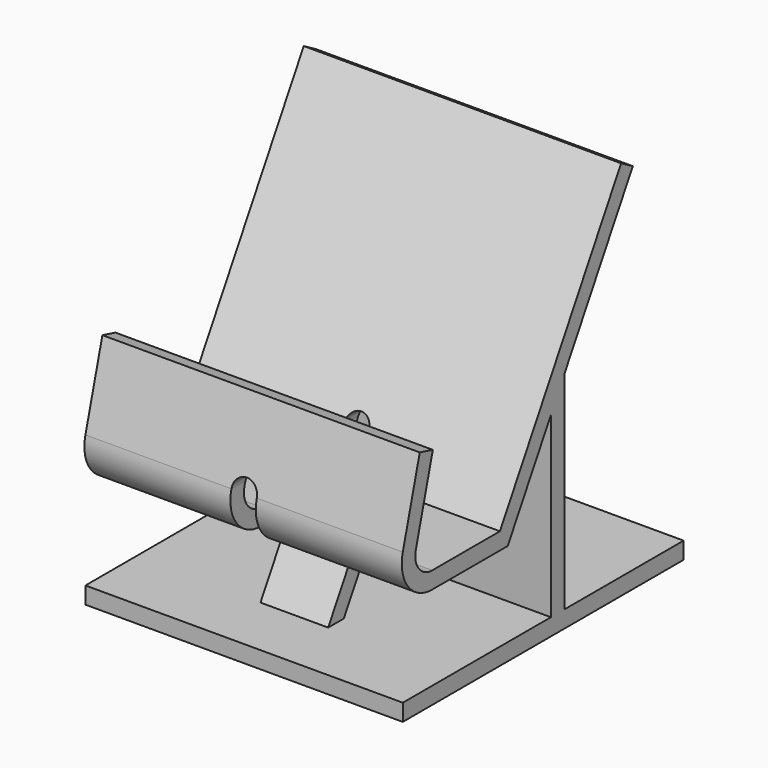
from build123d import *

# Parameters (mm, degrees)
F1_DEPTH      = 37.5
F2_W          = 29.5
F2_H          = 20
F2_W_2        = 6
F2_H_2        = 11.3293714059
F3_DEPTH      = 43.7455051422
F3_DEPTH_BACK = 2


with BuildPart() as f1:
    # F0 (on Right) → F1 (new body, symmetric)
    with BuildSketch(Plane.YZ):
        with BuildLine():
            ThreePointArc((-49.1559958296, -42.4996678599), (-53.122762531, -40.5434750049), (-53.985624961, -36.2055726343))
            Line((-53.985624961, -36.2055726343), (-48.9735712256, -17.5003334434))
            Line((-48.9735712256, -17.5003334434), (-52.8372736915, -16.4650574879))
            Line((-52.8372736915, -16.4650574879), (-57.8493273667, -35.1702964539))
            ThreePointArc((-57.8493273667, -35.1702964539), (-56.2961749927, -42.9785207209), (-49.1559949301, -46.4996678599))
            Line((-49.1559949301, -46.4996678599), (-31.4653969064, -46.4996678599))
            Line((-31.4653969064, -46.4996678599), (-43.0124022901, -66.4996678599))
            Line((-43.0124022901, -66.4996678599), (-57.8493273667, -66.4996678599))
            Line((-57.8493273667, -66.4996678599), (-57.8493273667, -70.499666991))
            Line((-57.8493273667, -70.499666991), (25.1038222245, -70.499666991))
            Line((25.1038222245, -70.499666991), (25.1038222245, -66.4996678599))
            Line((25.1038222245, -66.4996678599), (-10.1038222245, -66.4996678599))
            Line((-10.1038222245, -66.4996678599), (-10.1038222245, -17.5003334434))
            Line((-10.1038222245, -17.5003334434), (10.1038222245, 17.5003334434))
            Line((10.1038222245, 17.5003334434), (6.6397213618, 19.500333009))
            Line((6.6397213618, 19.500333009), (-29.1559958296, -42.4996678599))
            Line((-29.1559958296, -42.4996678599), (-49.1559958296, -42.4996678599))
        make_face()
        Polygon((-14.1038222245, -66.4996678599), (-38.3936011399, -66.4996678599), (-14.1038222245, -24.4285366737), align=None, mode=Mode.SUBTRACT)
    extrude(amount=F1_DEPTH, both=True)

    # F2 (on face) → F3 (cut, two sides)
    with BuildSketch(Plane.XZ.offset(57.8493273667)) as f3_sk:
        with Locations((-22.75, -56.4996678599)):
            Rectangle(F2_W, F2_H)
        with Locations((22.75, -56.4996678599)):
            Rectangle(F2_W, F2_H)
        with Locations((0, -40.8349821569)):
            Rectangle(F2_W_2, F2_H_2)
        with BuildLine():
            Line((-3, -35.1702964539), (3, -35.1702964539))
            ThreePointArc((3, -35.1702964539), (0, -32.1702964539), (-3, -35.1702964539))
        make_face()
    extrude(amount=-F3_DEPTH, mode=Mode.SUBTRACT)
    extrude(f3_sk.sketch, amount=F3_DEPTH_BACK, mode=Mode.SUBTRACT)


solid = f1.part
